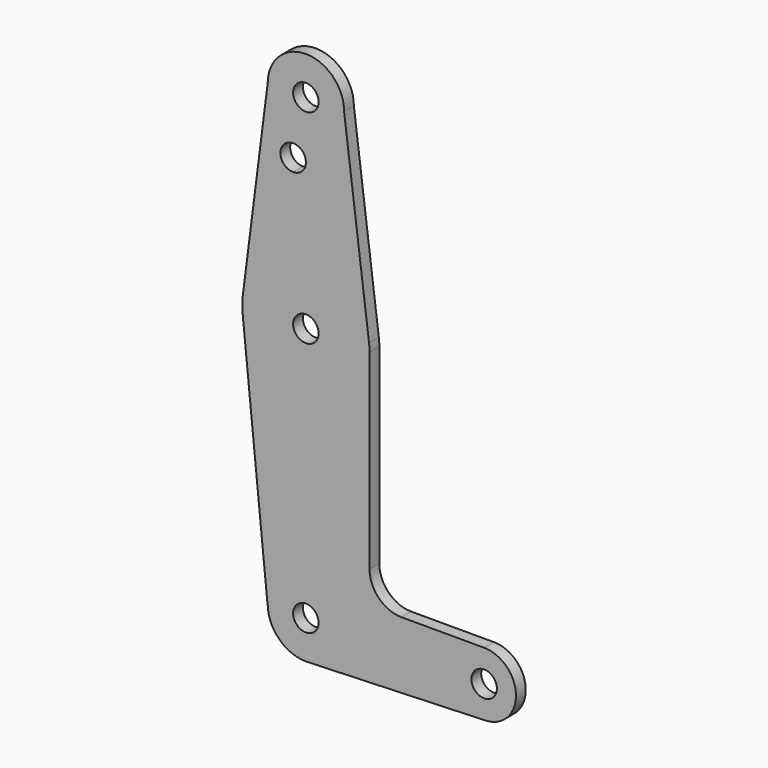
from build123d import *

# Parameters (mm, degrees)
F0_R     = 3.175
F1_DEPTH = 3.048


with BuildPart() as f1:
    # F0 (on Front) → F1 (new body)
    with BuildSketch(Plane.XZ):
        with BuildLine():
            ThreePointArc((44.7324052746, -7.9324746146), (50.1616327839, -5.5119104847), (52.3875, 0))
            ThreePointArc((52.3875, 0), (50.0626600757, 5.6126600757), (44.45, 7.9375))
            ThreePointArc((44.45, 7.9375), (36.5137564458, -0.1412249921), (44.7324052746, -7.9324746146))
        make_face()
        with Locations((44.45, 0)):
            Circle(F0_R, mode=Mode.SUBTRACT)
        with BuildLine():
            ThreePointArc((44.7324052746, -7.9324746146), (36.5137564458, -0.1412249921), (44.45, 7.9375))
            Line((44.45, 7.9375), (23.8252, 7.9375))
            ThreePointArc((23.8252, 7.9375), (18.2035596682, 10.2660596682), (15.875, 15.8877))
            Line((15.875, 15.8877), (15.875, 63.5))
            ThreePointArc((15.875, 63.5), (1.0061676396, 47.6569178604), (-15.7474569047, 61.4917106696))
            Line((-15.7474569047, 61.4917106696), (-9.5728986225, 0))
            Line((-9.5728986225, 0), (-9.525, 0))
            ThreePointArc((-9.525, 0), (0, 9.525), (9.525, 0))
            ThreePointArc((9.525, 0), (6.9705567315, -6.4912990883), (0.6773435479, -9.500885786))
            Line((0.6773435479, -9.500885786), (44.7324052746, -7.9324746146))
        make_face()
        with BuildLine():
            Line((0, -9.525), (0.6773435479, -9.500885786))
            ThreePointArc((0.6773435479, -9.500885786), (6.9705567315, -6.4912990883), (9.525, 0))
            ThreePointArc((9.525, 0), (0, 9.525), (-9.525, 0))
            ThreePointArc((-9.525, 0), (-6.7351920908, -6.7351920908), (0, -9.525))
        make_face()
        with BuildLine():
            ThreePointArc((3.175, 0), (0, -3.175), (-3.175, 0))
            ThreePointArc((-3.175, 0), (0, 3.175), (3.175, 0))
        make_face(mode=Mode.SUBTRACT)
        with BuildLine():
            ThreePointArc((0, -9.525), (0.3388863295, -9.5189695375), (0.6773435479, -9.500885786))
            Line((0.6773435479, -9.500885786), (0, -9.525))
        make_face()
        with BuildLine():
            ThreePointArc((-15.7474569047, 61.4917106696), (1.0061676396, 47.6569178604), (15.875, 63.5))
            ThreePointArc((15.875, 63.5), (15.8430821396, 64.5061676396), (15.7474569047, 65.5082893304))
            ThreePointArc((15.7474569047, 65.5082893304), (0, 79.375), (-15.7474569047, 65.5082893304))
            ThreePointArc((-15.7474569047, 65.5082893304), (-15.875, 63.5), (-15.7474569047, 61.4917106696))
        make_face()
        with Locations((0, 63.5)):
            Circle(F0_R, mode=Mode.SUBTRACT)
        with BuildLine():
            ThreePointArc((-15.7474569047, 65.5082893304), (0, 79.375), (15.7474569047, 65.5082893304))
            Line((15.7474569047, 65.5082893304), (9.525, 114.3))
            ThreePointArc((9.525, 114.3), (0, 104.775), (-9.525, 114.3))
            Line((-9.525, 114.3), (-15.7474569047, 65.5082893304))
        make_face()
        with BuildLine():
            ThreePointArc((-3.175, 96.8502), (-5.4200640303, 102.2702640303), (0, 100.0252))
            ThreePointArc((0, 100.0252), (-0.9299359697, 97.7801359697), (-3.175, 96.8502))
        make_face(mode=Mode.SUBTRACT)
        with BuildLine():
            ThreePointArc((-9.525, 114.3), (0, 104.775), (9.525, 114.3))
            ThreePointArc((9.525, 114.3), (0, 123.825), (-9.525, 114.3))
        make_face()
        with Locations((0, 114.3)):
            Circle(F0_R, mode=Mode.SUBTRACT)
    extrude(amount=-F1_DEPTH)


solid = f1.part
